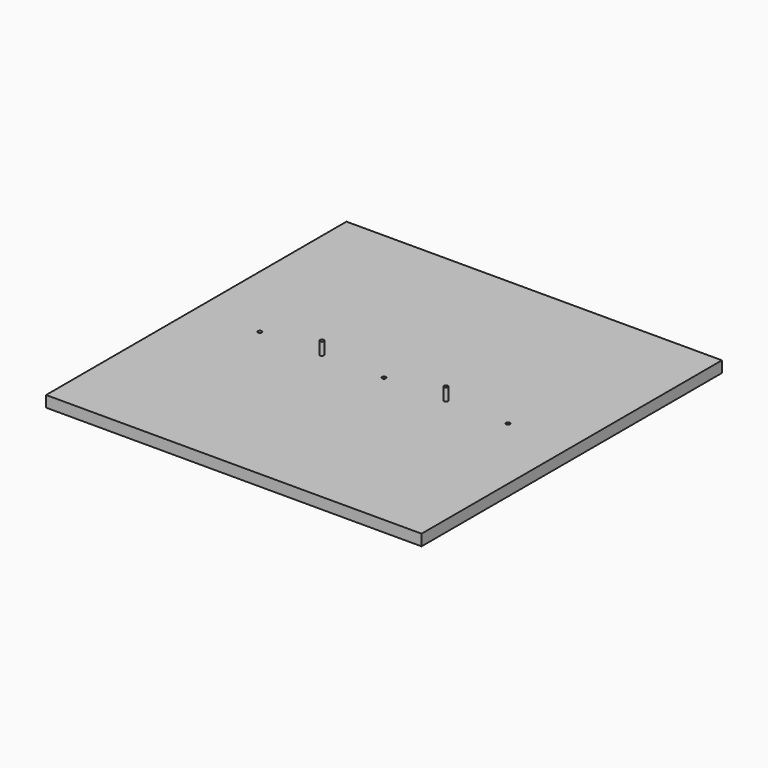
from build123d import *

# Parameters (mm, degrees)
SKETCH_W     = 605
SKETCH_H     = 605
PAD_DEPTH    = 18
SKETCH001_R  = 3.175
PAD001_DEPTH = 20
SKETCH002_R  = 3.175
POCKET_DEPTH = 3


with BuildPart() as part:
    # Sketch → Pad (new body)
    with BuildSketch(Plane.XY):
        Rectangle(SKETCH_W, SKETCH_H)
    extrude(amount=PAD_DEPTH)

    # Sketch001 (on Face6 of Pad) → Pad001 (join)
    with BuildSketch(Plane.XY.offset(18)):
        with Locations((-100, 0)):
            Circle(SKETCH001_R)
        with Locations((100, 0)):
            Circle(SKETCH001_R)
    extrude(amount=PAD001_DEPTH)

    # Sketch002 (on Face5 of Pad001) → Pocket (cut)
    with BuildSketch(Plane.XY.offset(18)):
        with Locations((-200, 0)):
            Circle(SKETCH002_R)
        Circle(SKETCH002_R)
        with Locations((200, 0)):
            Circle(SKETCH002_R)
    extrude(amount=-POCKET_DEPTH, mode=Mode.SUBTRACT)


solid = part.part
